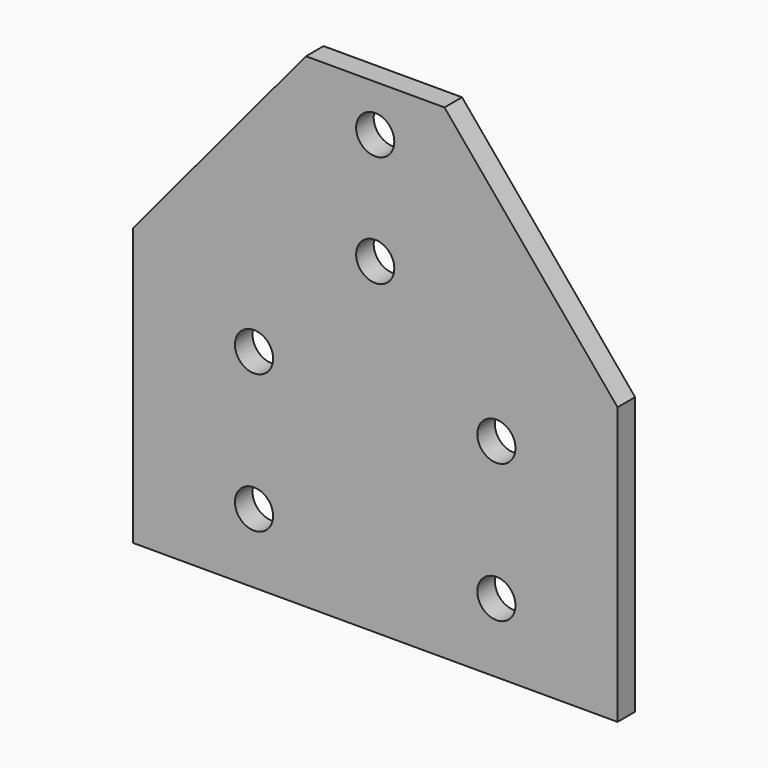
from build123d import *

# Parameters (mm, degrees)
F0_R     = 2.7559
F1_DEPTH = 3.175


with BuildPart() as f1:
    # F0 (on Front) → F1 (new body)
    with BuildSketch(Plane.XZ):
        Polygon((-70, 0), (0, 0), (0, 40), (-25, 70), (-45, 70), (-70, 40), align=None)
        with Locations((-52.5, 10.000005)):
            Circle(F0_R, mode=Mode.SUBTRACT)
        with Locations((-52.5, 30.000005)):
            Circle(F0_R, mode=Mode.SUBTRACT)
        with Locations((-17.5, 10.000005)):
            Circle(F0_R, mode=Mode.SUBTRACT)
        with Locations((-17.5, 30.000005)):
            Circle(F0_R, mode=Mode.SUBTRACT)
        with Locations((-35, 47.164548)):
            Circle(F0_R, mode=Mode.SUBTRACT)
        with Locations((-35, 63.27837)):
            Circle(F0_R, mode=Mode.SUBTRACT)
        Polygon((-70, 0), (0, 0), (0, 40), (-25, 70), (-45, 70), (-70, 40), align=None)
        with Locations((-52.5, 10.000005)):
            Circle(F0_R, mode=Mode.SUBTRACT)
        with Locations((-52.5, 30.000005)):
            Circle(F0_R, mode=Mode.SUBTRACT)
        with Locations((-17.5, 10.000005)):
            Circle(F0_R, mode=Mode.SUBTRACT)
        with Locations((-17.5, 30.000005)):
            Circle(F0_R, mode=Mode.SUBTRACT)
        with Locations((-35, 47.164548)):
            Circle(F0_R, mode=Mode.SUBTRACT)
        with Locations((-35, 63.27837)):
            Circle(F0_R, mode=Mode.SUBTRACT)
    extrude(amount=-F1_DEPTH)


solid = f1.part
